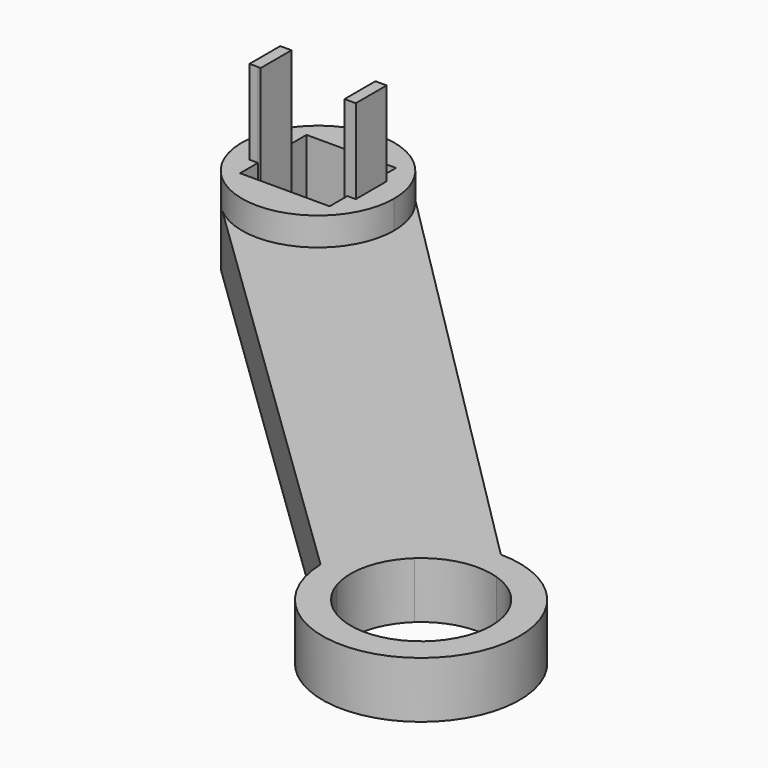
from build123d import *

# Parameters (mm, degrees)
F1_DEPTH = 30
F2_DEPTH = 15
F3_DEPTH = 10


with BuildPart() as f1:
    # F0 (on Top) → F1 (new body)
    with BuildSketch(Plane.XY):
        Polygon((-55.258995, 46.567235), (-55.758995, 46.567235), (-57.258995, 46.567235), (-57.258995, 39.753549), (-55.758995, 39.753549), (-55.758995, 39.717235), (-55.258995, 39.717235), align=None)
        Polygon((-38.358995, 46.567235), (-39.858995, 46.567235), (-40.358995, 46.567235), (-40.358995, 39.717235), (-39.858995, 39.717235), (-38.358995, 39.717235), align=None)
    extrude(amount=F1_DEPTH)


with BuildPart() as f2:
    # F0 (on Top) → F2 (new body)
    with BuildSketch(Plane.XY):
        with BuildLine():
            ThreePointArc((-56.716251, 32.997739), (-42.241139, 30.843903), (-34.308995, 43.142235))
            ThreePointArc((-34.308995, 43.142235), (-35.25825, 48.115041), (-37.972522, 52.38852))
            ThreePointArc((-37.972522, 52.38852), (-57.05528, 52.978709), (-57.645469, 33.89595))
            Line((-57.645469, 33.89595), (-56.716251, 32.997739))
        make_face()
        Polygon((-55.758995, 46.567235), (-55.758995, 50.517235), (-39.858995, 50.517235), (-39.858995, 46.567235), (-38.358995, 46.567235), (-38.358995, 39.717235), (-39.858995, 39.717235), (-39.858995, 35.767235), (-55.758995, 35.767235), (-55.758995, 39.717235), (-55.758995, 39.753549), (-57.258995, 39.753549), (-57.258995, 46.567235), align=None, mode=Mode.SUBTRACT)
    extrude(amount=F2_DEPTH)

    # F0 (on Top) → F3 (join)
    with BuildSketch(Plane.XY):
        with BuildLine():
            ThreePointArc((-37.972522, 52.38852), (-35.25825, 48.115041), (-34.308995, 43.142235))
            ThreePointArc((-34.308995, 43.142235), (-42.241139, 30.843903), (-56.716251, 32.997739))
            Line((-56.716251, 32.997739), (20.358005, -41.504626))
            ThreePointArc((20.358005, -41.504626), (50.327961, -53.327973), (38.013308, -23.556526))
            Line((38.013308, -23.556526), (-37.972522, 52.38852))
        make_face()
        with BuildLine():
            ThreePointArc((47.0174, -32.555785), (49.488708, -36.490393), (50.352249, -41.055785))
            ThreePointArc((50.352249, -41.055785), (39.790212, -53.404643), (25.953161, -44.884846))
            ThreePointArc((25.953161, -44.884846), (25.7614, -37.883817), (29.365288, -31.878557))
            ThreePointArc((29.365288, -31.878557), (35.197909, -28.840856), (41.7652, -29.18402))
            ThreePointArc((41.7652, -29.18402), (44.201664, -30.288476), (46.347327, -31.886071))
            ThreePointArc((46.347327, -31.886071), (46.68871, -32.214578), (47.0174, -32.555785))
        make_face(mode=Mode.SUBTRACT)
    extrude(amount=F3_DEPTH)


solid = Compound([f1.part, f2.part])
